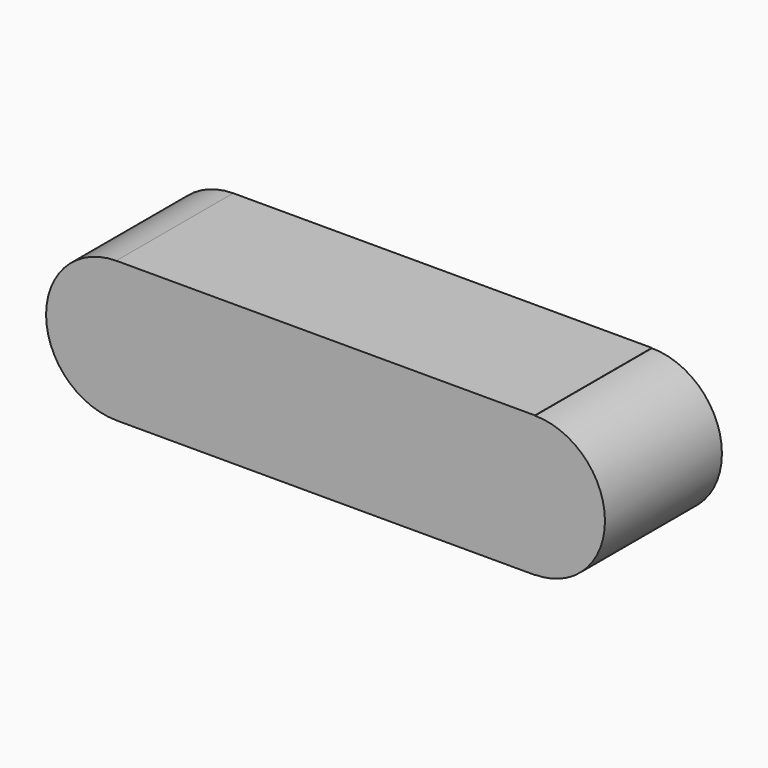
from build123d import *

# Parameters (mm, degrees)
F1_DEPTH = 25


with BuildPart() as f1:
    # F0 (on Front) → F1 (new body)
    with BuildSketch(Plane.XZ):
        with BuildLine():
            Line((-35.795458, -12.006158), (-35.795458, 12.006158))
            ThreePointArc((-35.795458, 12.006158), (-47.801616, 0), (-35.795458, -12.006158))
        make_face()
        Polygon((35.795458, 12.017045), (-35.795458, 12.017045), (-35.795458, 12.006158), (-35.795458, -12.006158), (-35.795458, -12.017045), (35.795458, -12.017045), (35.795458, -11.970718), (35.795458, 11.970718), align=None)
        with BuildLine():
            ThreePointArc((35.795458, -11.970718), (47.766176, 0), (35.795458, 11.970718))
            Line((35.795458, 11.970718), (35.795458, -11.970718))
        make_face()
    extrude(amount=F1_DEPTH)


solid = f1.part
